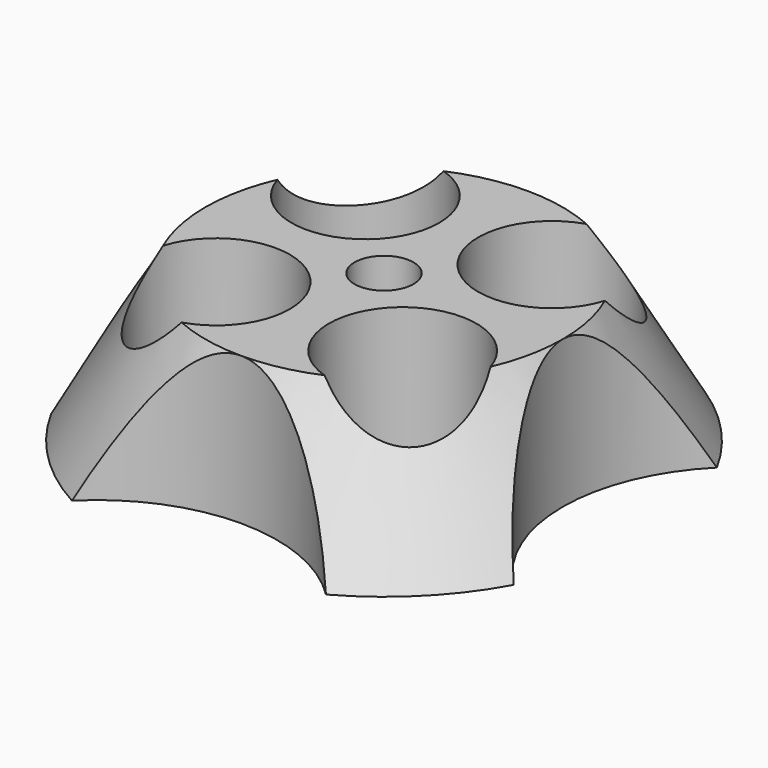
from build123d import *

# Parameters (mm, degrees)
F3_DEPTH = 20.001
F4_R     = 10
F5_DEPTH = 20.0010001


with BuildPart() as f1:
    # F0 (on Front) → F1 (revolve)
    with BuildSketch(Plane.XZ):
        Polygon((-4, 0), (-4, 20), (-24.2264973081, 20), (-35.7735026919, 0), align=None)
    revolve(axis=Axis((0, 0, 10), (0, 0, 1)))

    # F2 (on Top) → F3 (cut, through all)
    with BuildSketch(Plane.XY):
        with BuildLine():
            ThreePointArc((-17.2168920075, 31.3579674795), (0, 24.2264973081), (17.2168920075, 31.3579674795))
            ThreePointArc((17.2168920075, 31.3579674795), (0, 35.7735026919), (-17.2168920075, 31.3579674795))
        make_face()
        with BuildLine():
            ThreePointArc((31.3579674795, -17.2168920075), (34.6520405524, -8.887045651), (35.7735026919, 0))
            ThreePointArc((35.7735026919, 0), (34.6520405524, 8.887045651), (31.3579674795, 17.2168920075))
            ThreePointArc((31.3579674795, 17.2168920075), (24.2264973081, 0), (31.3579674795, -17.2168920075))
        make_face()
        with BuildLine():
            ThreePointArc((-17.2168920075, -31.3579674795), (0, -35.7735026919), (17.2168920075, -31.3579674795))
            ThreePointArc((17.2168920075, -31.3579674795), (0, -24.2264973081), (-17.2168920075, -31.3579674795))
        make_face()
        with BuildLine():
            ThreePointArc((-31.3579674795, -17.2168920075), (-24.2264973081, 0), (-31.3579674795, 17.2168920075))
            ThreePointArc((-31.3579674795, 17.2168920075), (-35.7735026919, 0), (-31.3579674795, -17.2168920075))
        make_face()
    extrude(amount=F3_DEPTH, mode=Mode.SUBTRACT)

    # F4 (on Top) → F5 (cut, through all)
    with BuildSketch(Plane.XY):
        with Locations((-12.6478431701, -12.6478431701)):
            Circle(F4_R)
        with Locations((12.6478431701, -12.6478431701)):
            Circle(F4_R)
        with Locations((12.6478431701, 12.6478431701)):
            Circle(F4_R)
        with Locations((-12.6478431701, 12.6478431701)):
            Circle(F4_R)
    extrude(amount=F5_DEPTH, mode=Mode.SUBTRACT)


solid = f1.part
